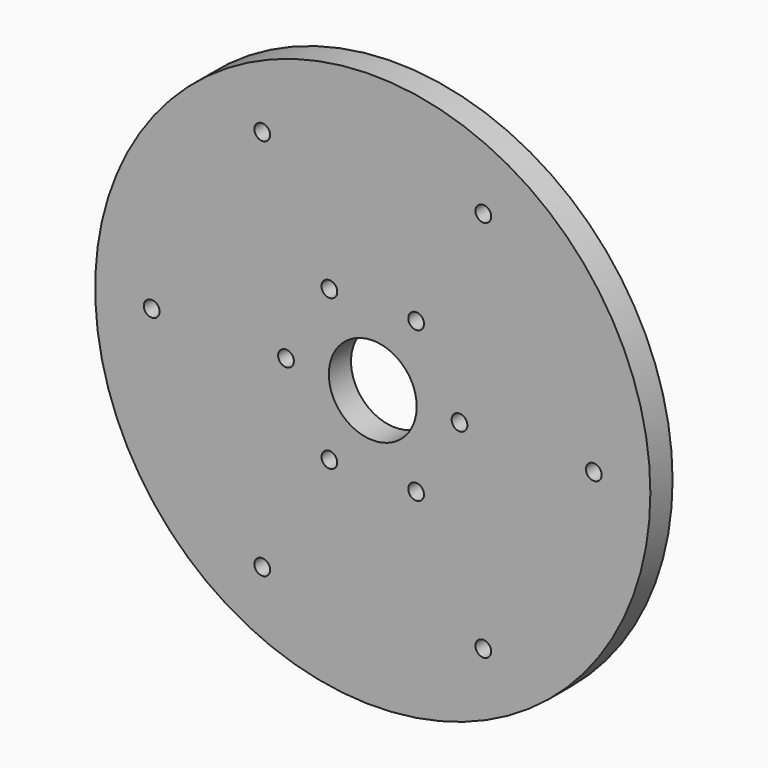
from build123d import *

# Parameters (mm, degrees)
F0_R     = 76.2
F0_R_2   = 2.159
F0_R_3   = 12.065
F1_DEPTH = 7.62


with BuildPart() as f1:
    # F0 (on Front) → F1 (new body)
    with BuildSketch(Plane.XZ):
        Circle(F0_R)
        with Locations((-30.340516, -52.551315)):
            Circle(F0_R_2, mode=Mode.SUBTRACT)
        with Locations((-11.90625, -20.62223)):
            Circle(F0_R_2, mode=Mode.SUBTRACT)
        with Locations((30.340516, -52.551315)):
            Circle(F0_R_2, mode=Mode.SUBTRACT)
        with Locations((11.90625, -20.62223)):
            Circle(F0_R_2, mode=Mode.SUBTRACT)
        with Locations((-60.681032, 0)):
            Circle(F0_R_2, mode=Mode.SUBTRACT)
        with Locations((-23.8125, 0)):
            Circle(F0_R_2, mode=Mode.SUBTRACT)
        with Locations((-11.90625, 20.62223)):
            Circle(F0_R_2, mode=Mode.SUBTRACT)
        with Locations((-30.340516, 52.551315)):
            Circle(F0_R_2, mode=Mode.SUBTRACT)
        Circle(F0_R_3, mode=Mode.SUBTRACT)
        with Locations((23.8125, 0)):
            Circle(F0_R_2, mode=Mode.SUBTRACT)
        with Locations((11.90625, 20.62223)):
            Circle(F0_R_2, mode=Mode.SUBTRACT)
        with Locations((60.681032, 0)):
            Circle(F0_R_2, mode=Mode.SUBTRACT)
        with Locations((30.340516, 52.551315)):
            Circle(F0_R_2, mode=Mode.SUBTRACT)
    extrude(amount=-F1_DEPTH)


solid = f1.part
